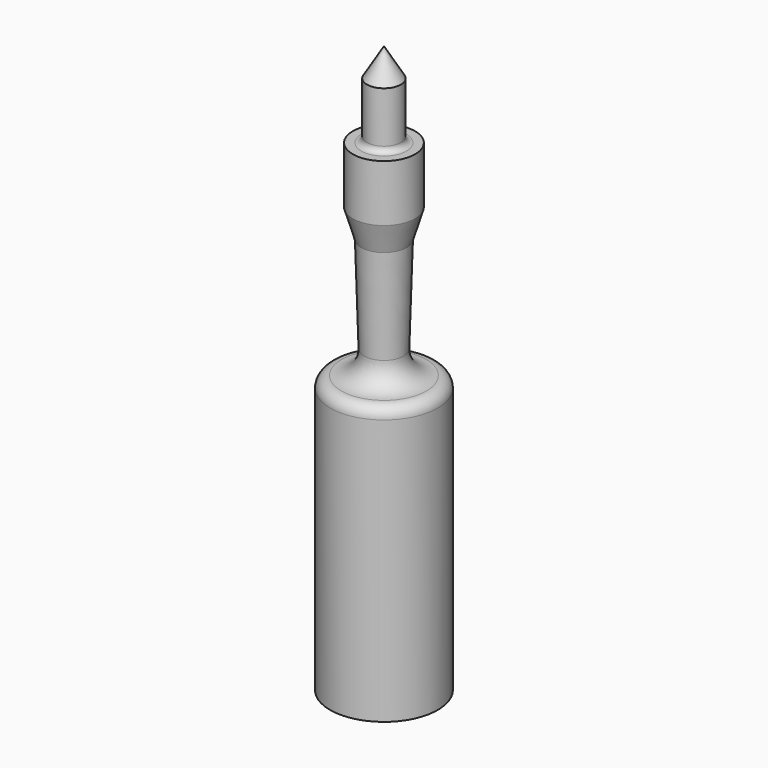
from build123d import *

# Parameters (mm, degrees)
F3_ANGLE = 90


with BuildPart() as f1:
    # F0 (on Front) → F1 (revolve)
    with BuildSketch(Plane.XZ):
        with BuildLine():
            Line((-100, 0), (0, 0))
            Line((0, 0), (-5, 3))
            Line((-5, 3), (-14, 3))
            ThreePointArc((-14, 3), (-14.707107, 3.292893), (-15, 4))
            Line((-15, 4), (-15, 5.5))
            Line((-15, 5.5), (-25, 5.5))
            Line((-25, 5.5), (-30, 4))
            Line((-30, 4), (-47, 3.5))
            ThreePointArc((-47, 3.5), (-49.904137, 4.628569), (-51.117596, 7.498271))
            ThreePointArc((-51.117596, 7.498271), (-51.703889, 8.913707), (-53.119325, 9.5))
            Line((-53.119325, 9.5), (-100, 9.5))
            Line((-100, 9.5), (-100, 0))
        make_face()
    revolve(axis=Axis((-50, 0, 0), (1, 0, 0)))


with BuildPart() as f1_1:
    # F3: moved
    add(f1.part.rotate(Axis((0, -54.375457, 0), (0, -1, 0)), F3_ANGLE))


solid = f1_1.part
